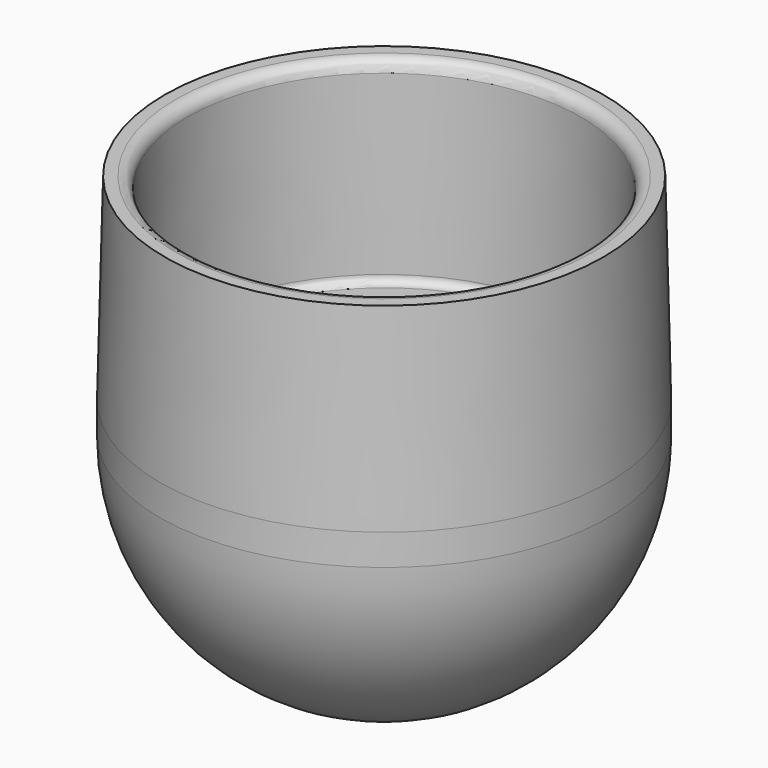
from build123d import *

# Parameters (mm, degrees)
F2_R      = 1
F3_R      = 1.5
F5_W      = 6.6521469513
F5_H      = 11.3077862186
F10_DEPTH = 6.192
F13_R     = 3.24
F14_DEPTH = 2.064


with BuildPart() as f1:
    # F0 (on Front) → F1 (revolve)
    with BuildSketch(Plane.XZ):
        Polygon((0, -4), (0, 0), (-25.4, 0), (-25.3, 25.4), (-28.3, 25.4), (-28.908, 0), (-28.908, -4), align=None)
    revolve(axis=Axis((0, 0, -2), (0, 0, -1)))

    # F2
    f2_edges = [f1.edges().sort_by_distance(p)[0] for p in [
        (25.4, 0, 0),
    ]]
    fillet(f2_edges, radius=F2_R)

    # F3
    f3_edges = [f1.edges().sort_by_distance(p)[0] for p in [
        (25.3, 0, 25.4),
    ]]
    fillet(f3_edges, radius=F3_R)

    # F5 (on Front) → F6 (revolve, cut)
    with BuildSketch(Plane.XZ):
        with Locations((-3.3260734756, 5.6538931093)):
            Rectangle(F5_W, F5_H)
        Polygon((0, -15.6807032946), (0, 0), (-6.6521469513, 0), (-3.24, -3.9252260535), (-3.24, -15.6807032946), (-3.175, -15.6807032946), align=None)
    revolve(axis=Axis((0, 0, -2.186458538), (0, 0, -1)), mode=Mode.SUBTRACT)


with BuildPart() as f8:
    # F7 (on Front) → F8 (revolve)
    with BuildSketch(Plane.XZ):
        with BuildLine():
            Line((0, -4), (-28.908, -4))
            ThreePointArc((-28.908, -4), (-24.4644892038, -19.40004), (-12.5, -30.0657335212))
            Line((-12.5, -30.0657335212), (0, -30.0657335212))
            Line((0, -30.0657335212), (0, -4))
        make_face()
    revolve(axis=Axis((0, 0, -17.0328667606), (0, 0, -1)))


with BuildPart() as f10:
    # F9 (on face) → F10 (new body)
    with BuildSketch(Plane.XY.offset(-4)):
        Polygon((3.2331615075, 5.6), (-3.2331615075, 5.6), (-6.4663230149, 0), (-3.2331615075, -5.6), (3.2331615075, -5.6), (6.4663230149, 0), align=None)
    extrude(amount=-F10_DEPTH)


with BuildPart() as f10_1:
    # F11: moved
    add(f10.part.moved(Location((0, 0, -2.064))))


with BuildPart() as f8_1:
    add(f8.part)

    # F12: cut F10
    add(f10_1.part, mode=Mode.SUBTRACT)

    # F13 (on face) → F14 (cut)
    with BuildSketch(Plane.XY.offset(-4)):
        Circle(F13_R)
    extrude(amount=-F14_DEPTH, mode=Mode.SUBTRACT)


solid = Compound([f1.part, f8_1.part])
